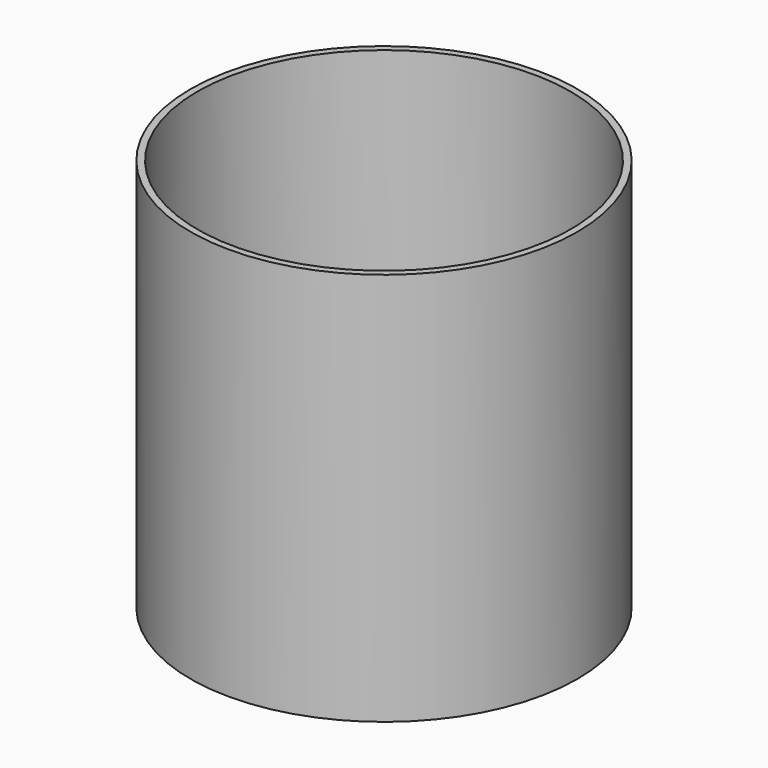
from build123d import *

# Parameters (mm, degrees)
F1_R     = 28.5
F2_DEPTH = 55
F3_D     = 55
F5_R     = 28.5
F6_DEPTH = 3


with BuildPart() as f2:
    # F1 (on Top) → F2 (new body)
    with BuildSketch(Plane.XY):
        Circle(F1_R)
    extrude(amount=F2_DEPTH)

    # F3 (through all)
    with Locations(Plane(origin=(0, 0, 0), x_dir=(1, 0, 0), z_dir=(0, 0, -1))):
        with Locations((0, 0)):
            Hole(F3_D / 2)

    # F5 (on offset) → F6 (join)
    with BuildSketch(Plane.XY.offset(-3)):
        Circle(F5_R)
    extrude(amount=F6_DEPTH)


solid = f2.part
